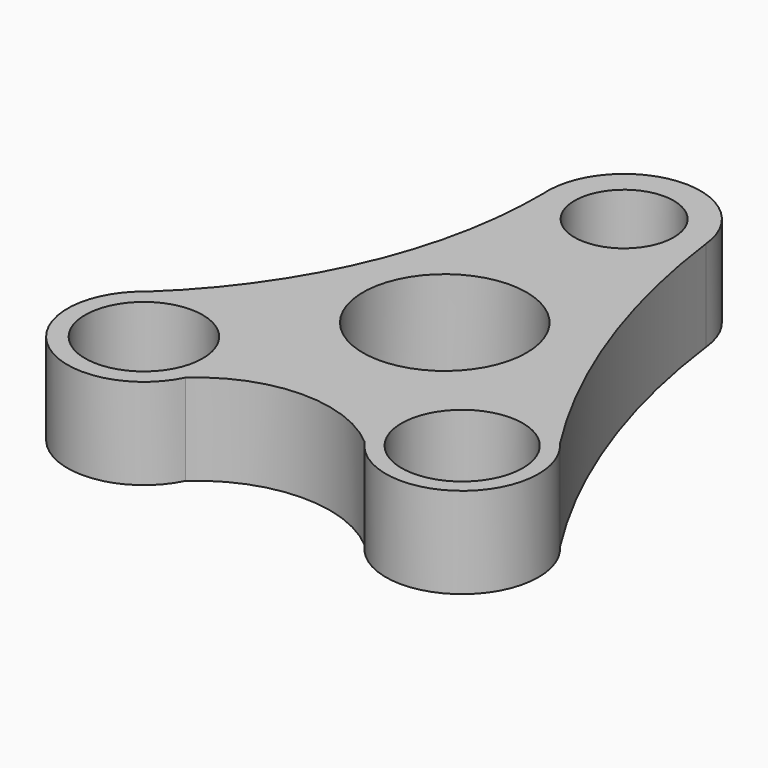
from build123d import *

# Parameters (mm, degrees)
F0_R     = 16.164593
F0_R_2   = 16.675225
F0_R_3   = 22.5
F0_R_4   = 13.640825
F1_DEPTH = 25


with BuildPart() as f1:
    # F0 (on Top) → F1 (new body)
    with BuildSketch(Plane.XY):
        with BuildLine():
            ThreePointArc((-20.947487, 60.127779), (-30.533192, 11.794642), (-58.790414, -28.572514))
            ThreePointArc((-58.790414, -28.572514), (-59.788705, -61.573291), (-27.483674, -54.759125))
            ThreePointArc((-27.483674, -54.759125), (-3.243491, -45.15369), (21.252717, -54.086028))
            ThreePointArc((21.252717, -54.086028), (51.458997, -59.003506), (54.497099, -28.550742))
            ThreePointArc((54.497099, -28.550742), (32.62122, 15.652937), (20.909197, 63.562725))
            ThreePointArc((20.909197, 63.562725), (-0.664529, 82.601445), (-20.990721, 62.23617))
            ThreePointArc((-20.990721, 62.23617), (-20.964457, 61.18207), (-20.947487, 60.127779))
        make_face()
        with Locations((-46.315201, -45.465384)):
            Circle(F0_R, mode=Mode.SUBTRACT)
        with Locations((38.666818, -42.349372)):
            Circle(F0_R_2, mode=Mode.SUBTRACT)
        Circle(F0_R_3, mode=Mode.SUBTRACT)
        with Locations((0, 61.611962)):
            Circle(F0_R_4, mode=Mode.SUBTRACT)
        with BuildLine():
            ThreePointArc((-20.990721, 62.23617), (-20.995586, 61.181432), (-20.947487, 60.127779))
            ThreePointArc((-20.947487, 60.127779), (-20.964457, 61.18207), (-20.990721, 62.23617))
        make_face()
    extrude(amount=F1_DEPTH)


solid = f1.part
